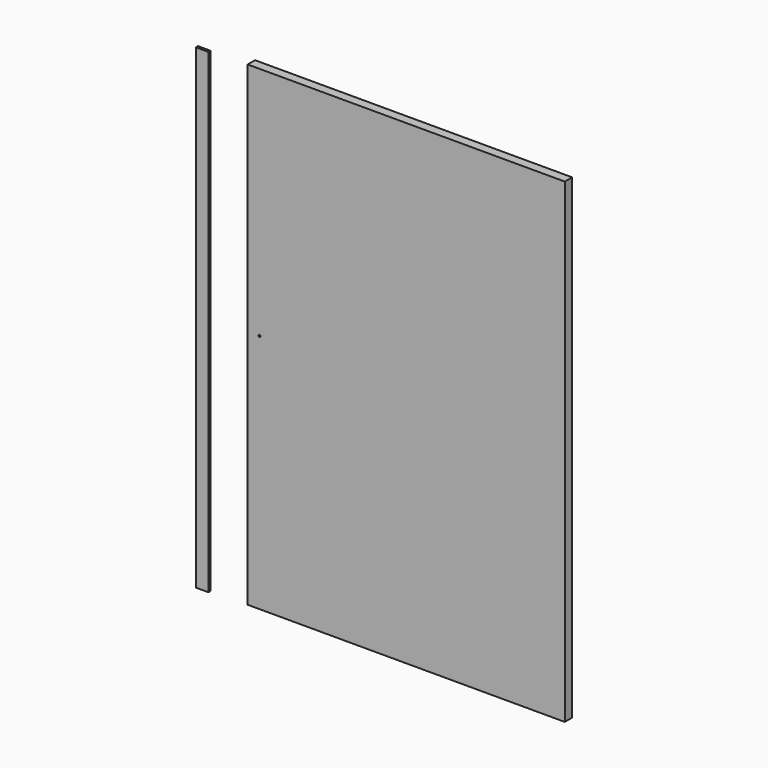
from build123d import *

# Parameters (mm, degrees)
F0_W     = 1200
F0_H     = 1800
F1_DEPTH = 35
F2_R     = 4
F3_DEPTH = 35.001
F4_W     = 47.5
F4_H     = 1800
F5_DEPTH = 10


with BuildPart() as f1:
    # F0 (on Front) → F1 (new body)
    with BuildSketch(Plane.XZ):
        Rectangle(F0_W, F0_H)
    extrude(amount=-F1_DEPTH)

    # F2 (on face) → F3 (cut, through all)
    with BuildSketch(Plane.XZ):
        with Locations((-555, 10.01303)):
            Circle(F2_R)
    extrude(amount=-F3_DEPTH, mode=Mode.SUBTRACT)


with BuildPart() as f5:
    # F4 (on Front) → F5 (new body)
    with BuildSketch(Plane.XZ):
        with Locations((-764.250457, 0)):
            Rectangle(F4_W, F4_H)
    extrude(amount=F5_DEPTH)


solid = Compound([f1.part, f5.part])
